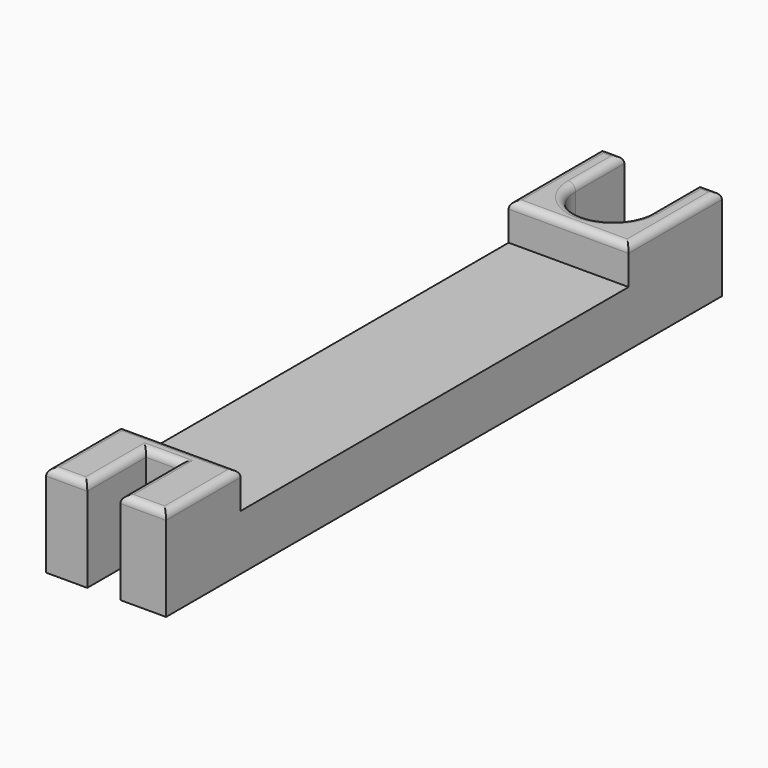
from build123d import *

# Parameters (mm, degrees)
F1_DEPTH = 25
F0_W     = 6.0739132134
F0_H     = 16.4999708235
F0_W_2   = 32.4678264267
F0_H_2   = 131.2236316204
F2_DEPTH = 15
F3_R     = 2


with BuildPart() as f1:
    # F0 (on Top) → F1 (new body)
    with BuildSketch(Plane.XY):
        Polygon((17.3710967268, -69.8527075052), (-15.0967296999, -69.8527075052), (-15.0967296999, -95.0735285878), (-3.9494665107, -95.0735285878), (-3.9494665107, -75.1573219895), (5.0167334893, -75.1573219895), (5.0167334893, -95.0735285878), (17.3710967268, -95.0735285878), align=None)
    extrude(amount=F1_DEPTH)



with BuildPart() as f1b:
    # F0 (on Top) → F1, piece 2 (new body)
    with BuildSketch(Plane.XY):
        with BuildLine():
            Line((-9.0228164865, 76.4271907806), (-15.0967296999, 76.4271907806))
            Line((-15.0967296999, 76.4271907806), (-15.0967296999, 61.3709241152))
            Line((-15.0967296999, 61.3709241152), (17.3710967268, 61.3709241152))
            Line((17.3710967268, 61.3709241152), (17.3710967268, 76.4271907806))
            Line((17.3710967268, 76.4271907806), (11.2971835135, 76.4271907806))
            ThreePointArc((11.2971835135, 76.4271907806), (1.1371835135, 66.2671907806), (-9.0228164865, 76.4271907806))
        make_face()
        with Locations((14.3341401202, 84.6771761924)):
            Rectangle(F0_W, F0_H)
        with Locations((-12.0597730932, 84.6771761924)):
            Rectangle(F0_W, F0_H)
    extrude(amount=F1_DEPTH)


with BuildPart() as f1_1:
    add(f1.part)

    add(f1b.part)  # F2 merges F1b
    # F0 (on Top) → F2 (join)
    with BuildSketch(Plane.XY):
        with Locations((1.1371835135, -4.240891695)):
            Rectangle(F0_W_2, F0_H_2)
    extrude(amount=F2_DEPTH)

    # F3
    f3_edges = [f1_1.edges().sort_by_distance(p)[0] for p in [
        (1.137184, 61.370924, 25),
        (17.371097, 77.149043, 25),
        (14.33414, 92.927162, 25),
        (11.297184, 84.677176, 25),
        (1.137184, 66.267191, 25),
        (-9.022816, 84.677176, 25),
        (-12.059773, 92.927162, 25),
        (-15.09673, 77.149043, 25),
        (17.371097, -82.463118, 25),
        (1.137184, -69.852708, 25),
        (-15.09673, -82.463118, 25),
        (-9.523098, -95.073529, 25),
        (-3.949467, -85.115425, 25),
        (0.533633, -75.157322, 25),
        (5.016733, -85.115425, 25),
        (11.193915, -95.073529, 25),
    ]]
    fillet(f3_edges, radius=F3_R)


solid = f1_1.part
